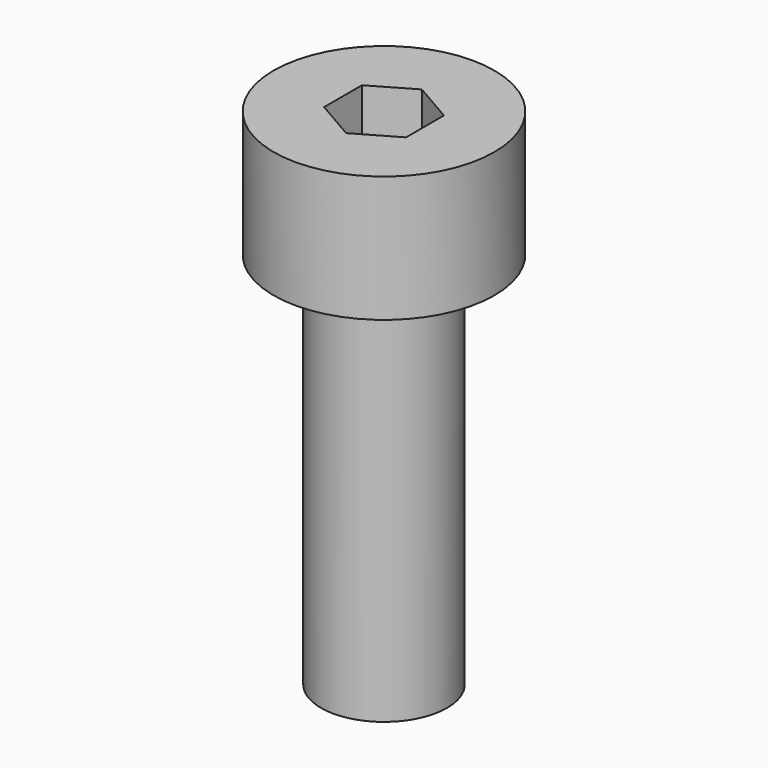
from build123d import *

# Parameters (mm, degrees)
F0_R     = 3.5
F0_R_2   = 2
F1_DEPTH = 4
F2_DEPTH = 12
F4_DEPTH = 4


with BuildPart() as f1:
    # F0 (on Top) → F1 (new body)
    with BuildSketch(Plane.XY):
        Circle(F0_R)
        Circle(F0_R_2, mode=Mode.SUBTRACT)
        Circle(F0_R_2)
    extrude(amount=F1_DEPTH)

    # F0 (on Top) → F2 (join)
    with BuildSketch(Plane.XY):
        Circle(F0_R_2)
    extrude(amount=-F2_DEPTH)

    # F3 (on face) → F4 (cut, through all)
    with BuildSketch(Plane.XY.offset(4)):
        Polygon((-1.299038, -0.75), (0, -1.5), (1.299038, -0.75), (1.299038, 0.75), (0, 1.5), (-1.299038, 0.75), align=None)
    extrude(amount=-F4_DEPTH, mode=Mode.SUBTRACT)


solid = f1.part
